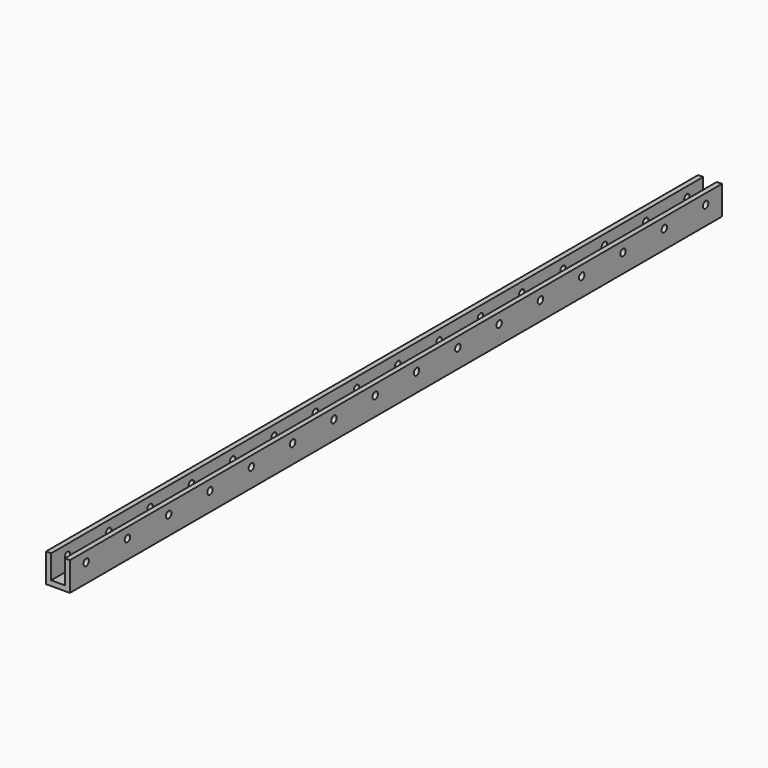
from build123d import *

# Parameters (mm, degrees)
F1_DEPTH      = 1524
F2_R          = 6.35
F3_DEPTH      = 22.226
F3_DEPTH_BACK = 22.226


with BuildPart() as f1:
    # F0 (on Front) → F1 (new body)
    with BuildSketch(Plane.XZ):
        Polygon((-22.225, 0), (0, 0), (22.225, 0), (22.225, 53.975), (12.7, 53.975), (12.7, 9.525), (-12.7, 9.525), (-12.7, 53.975), (-22.225, 53.975), align=None)
    extrude(amount=F1_DEPTH)

    # F2 (on Right) → F3 (cut, two sides)
    with BuildSketch(Plane.YZ) as f3_sk:
        with Locations((-38.1, 34.925)):
            Circle(F2_R)
        with Locations((-134.62, 34.925)):
            Circle(F2_R)
        with Locations((-231.14, 34.925)):
            Circle(F2_R)
        with Locations((-327.66, 34.925)):
            Circle(F2_R)
        with Locations((-424.18, 34.925)):
            Circle(F2_R)
        with Locations((-520.7, 34.925)):
            Circle(F2_R)
        with Locations((-617.22, 34.925)):
            Circle(F2_R)
        with Locations((-713.74, 34.925)):
            Circle(F2_R)
        with Locations((-810.26, 34.925)):
            Circle(F2_R)
        with Locations((-906.78, 34.925)):
            Circle(F2_R)
        with Locations((-1003.3, 34.925)):
            Circle(F2_R)
        with Locations((-1099.82, 34.925)):
            Circle(F2_R)
        with Locations((-1196.34, 34.925)):
            Circle(F2_R)
        with Locations((-1292.86, 34.925)):
            Circle(F2_R)
        with Locations((-1389.38, 34.925)):
            Circle(F2_R)
        with Locations((-1485.9, 34.925)):
            Circle(F2_R)
    extrude(amount=F3_DEPTH, mode=Mode.SUBTRACT)
    extrude(f3_sk.sketch, amount=-F3_DEPTH_BACK, mode=Mode.SUBTRACT)


solid = f1.part
